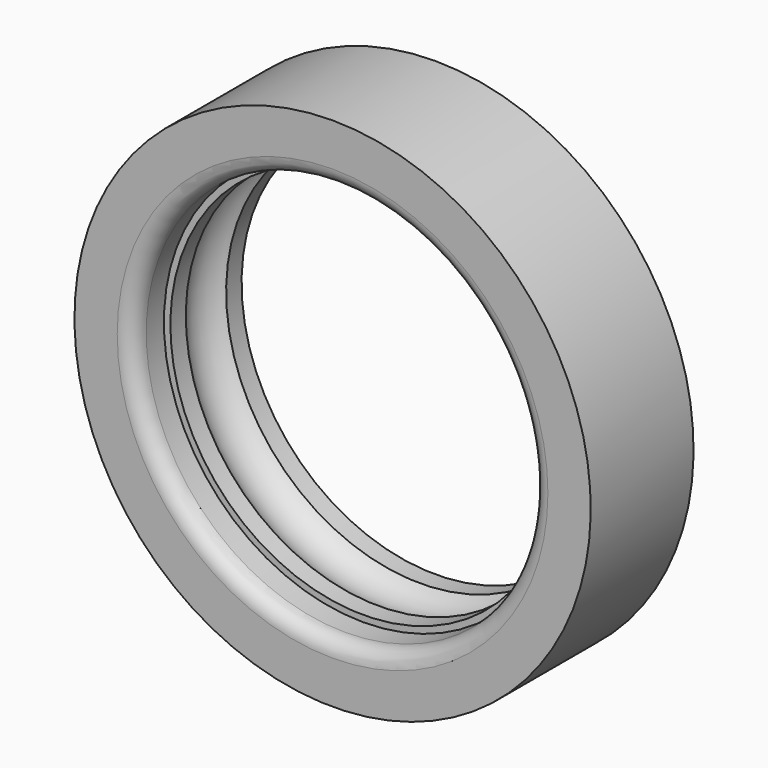
from build123d import *


with BuildPart() as f1:
    # F0 (on Right) → F1 (revolve)
    with BuildSketch(Plane.YZ):
        with BuildLine():
            Line((23.798037, 102.000584), (-27.001963, 102.000584))
            Line((-27.001963, 102.000584), (-27.001963, 85.09))
            ThreePointArc((-27.001963, 85.09), (-25.142091, 80.599872), (-20.651963, 78.74))
            Line((-20.651963, 78.74), (-11.87204, 78.74))
            Line((-11.87204, 78.74), (-11.87204, 76.2))
            Line((-11.87204, 76.2), (-4.25204, 76.2))
            ThreePointArc((-4.25204, 76.2), (5.861909, 81.555902), (16.178037, 76.600584))
            Line((16.178037, 76.600584), (23.798037, 76.600584))
            Line((23.798037, 76.600584), (23.798037, 102.000584))
        make_face()
    revolve(axis=Axis((0, -2.832543, 0), (0, 1, 0)))


solid = f1.part
